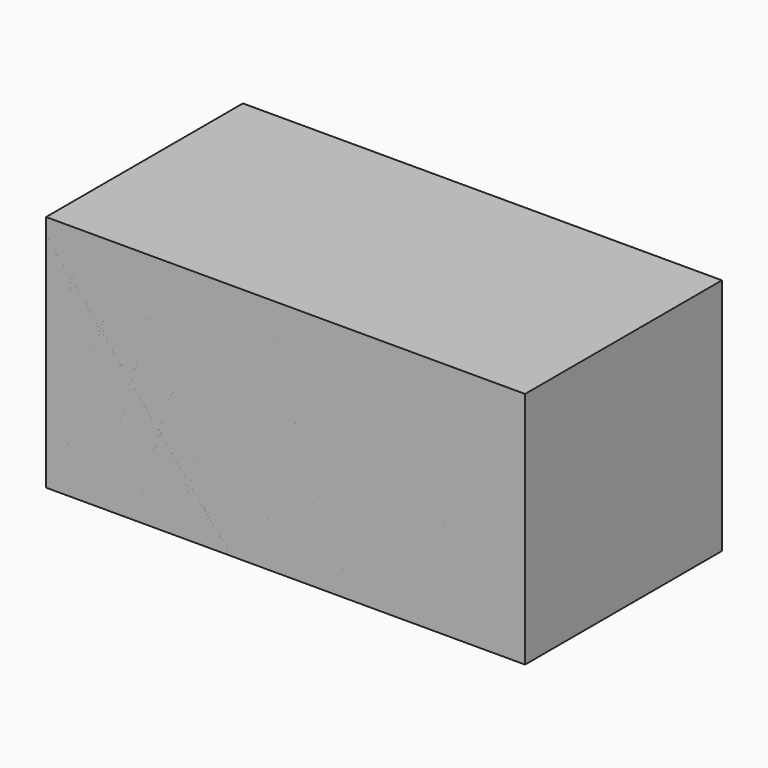
from build123d import *

# Parameters (mm, degrees)
F1_W          = 74.6335089207
F1_H          = 72.2803995013
F3_DEPTH      = 72.414457798
F3_DEPTH_BACK = 72.8730950505


with BuildPart() as f3:
    # F1 (on Right) → F3 (new body, two sides)
    with BuildSketch(Plane.YZ) as f3_sk:
        with Locations((37.3167544603, 23.2869200408)):
            Rectangle(F1_W, F1_H)
    extrude(amount=-F3_DEPTH)
    extrude(f3_sk.sketch, amount=F3_DEPTH_BACK)


with BuildPart() as f3b:
    # F2 (on face) → F3, piece 2 (new body, two sides)
    with BuildSketch(Plane.YZ) as f3_2_sk:
        Polygon((74.6335089207, 59.4271197915), (0, 59.4271197915), (0, -11.7918103933), (0, -12.8532797098), (74.6335089207, -12.8532797098), align=None)
    extrude(amount=-F3_DEPTH)
    extrude(f3_2_sk.sketch, amount=F3_DEPTH_BACK)


solid = Compound([f3.part, f3b.part])
